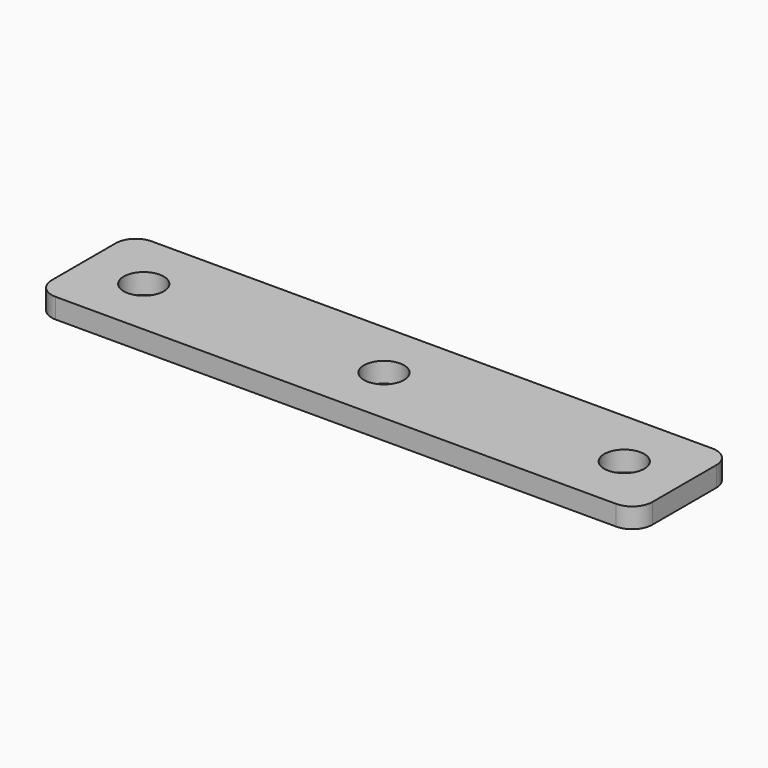
from build123d import *

# Parameters (mm, degrees)
F1_DEPTH = 5


with BuildPart() as f1:
    # F0 (on Top) → F1 (new body)
    with BuildSketch(Plane.XY):
        with BuildLine():
            Line((70, 15), (-70, 15))
            ThreePointArc((-70, 15), (-73.535534, 13.535534), (-75, 10))
            Line((-75, 10), (-75, -10))
            ThreePointArc((-75, -10), (-73.535534, -13.535534), (-70, -15))
            Line((-70, -15), (70, -15))
            ThreePointArc((70, -15), (73.535534, -13.535534), (75, -10))
            Line((75, -10), (75, 10))
            ThreePointArc((75, 10), (73.535534, 13.535534), (70, 15))
        make_face()
        with BuildLine():
            ThreePointArc((-60, -5), (-65, 0), (-60, 5))
            ThreePointArc((-60, 5), (-55, 0), (-60, -5))
        make_face(mode=Mode.SUBTRACT)
        with BuildLine():
            ThreePointArc((0, -5), (-5, 0), (0, 5))
            ThreePointArc((0, 5), (5, 0), (0, -5))
        make_face(mode=Mode.SUBTRACT)
        with BuildLine():
            ThreePointArc((60, -5), (55, 0), (60, 5))
            ThreePointArc((60, 5), (65, 0), (60, -5))
        make_face(mode=Mode.SUBTRACT)
    extrude(amount=F1_DEPTH)


solid = f1.part
